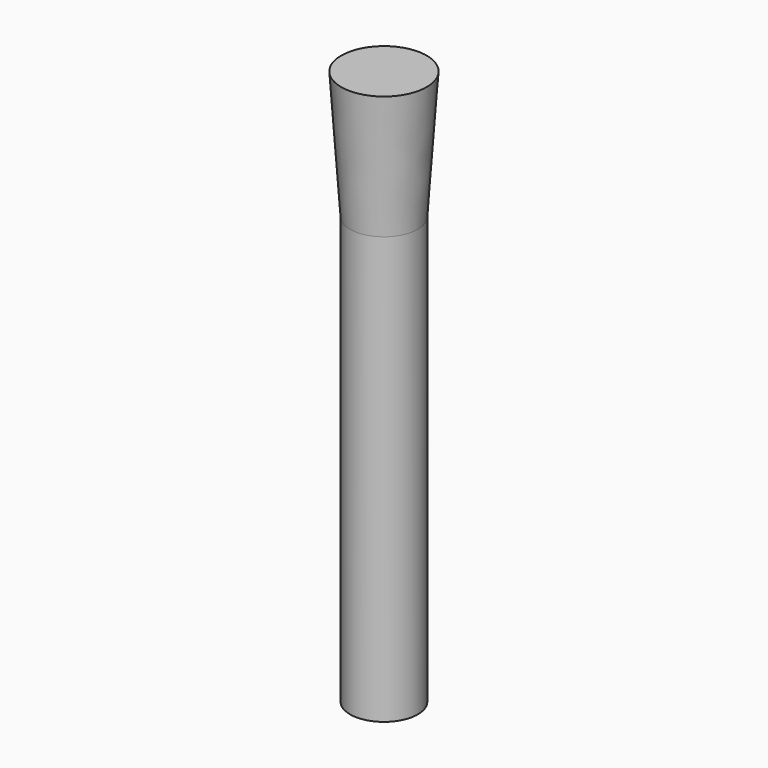
from build123d import *


with BuildPart() as part:
    # Sketch → Revolution (revolve)
    with BuildSketch(Plane.XZ):
        Polygon((0, 0), (-7.9375, 0), (-7.9375, 100), (-10, 130), (0, 130), align=None)
    revolve(axis=Axis((0, 0, 0), (0, 0, 1)))


solid = part.part
